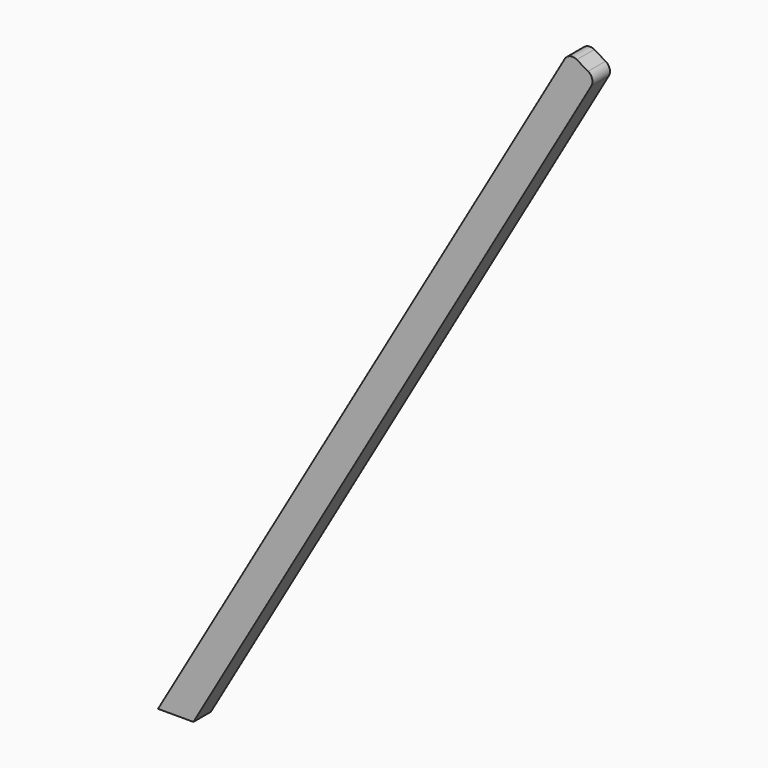
from build123d import *

# Parameters (mm, degrees)
F0_W     = 3.5
F0_H     = 94
F1_DEPTH = 2.5
F2_R     = 1
F3_ANGLE = 30
F4_W     = 63.0289912224
F4_H     = 8.7771331891
F5_DEPTH = 25


with BuildPart() as f1:
    # F0 (on Front) → F1 (new body)
    with BuildSketch(Plane.XZ):
        with Locations((1.75, 47)):
            Rectangle(F0_W, F0_H)
    extrude(amount=F1_DEPTH)

    # F2
    f2_edges = [f1.edges().sort_by_distance(p)[0] for p in [
        (0, -1.25, 94),
        (3.5, -1.25, 94),
    ]]
    fillet(f2_edges, radius=F2_R)


with BuildPart() as f1_1:
    # F3: moved
    add(f1.part.rotate(Axis((0, -1.25, 0), (0, 1, 0)), F3_ANGLE))


with BuildPart() as f5:
    # F4 (on Front) → F5 (new body)
    with BuildSketch(Plane.XZ):
        with Locations((0.7424876094, -4.3885665946)):
            Rectangle(F4_W, F4_H)
    extrude(amount=F5_DEPTH)


with BuildPart() as f1_2:
    add(f1_1.part)

    # F6: cut F5
    add(f5.part, mode=Mode.SUBTRACT)


solid = f1_2.part
